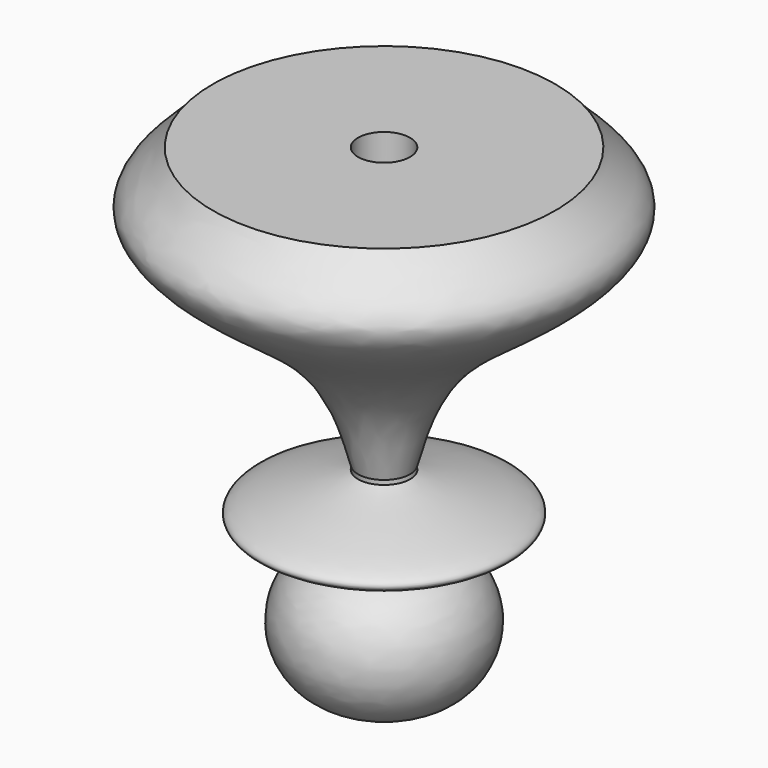
from build123d import *


with BuildPart() as f1:
    # F0 (on Right) → F1 (revolve)
    with BuildSketch(Plane.YZ):
        with BuildLine():
            Line((0, 13.0196327599), (0, -15.820335771))
            add(Edge.make_bspline(
                [(0, -15.820335771), (0.9483472479, -12.3530663624), (2.9142217394, -4.3031595803), (24.1643272847, 6.703975096), (16.3854773323, 11.0956474022), (15, 13.0196327599)],
                knots=[0.0077370555, 0.0077370555, 0.0077370555, 0.0077370555, 0.3333793249, 0.7461959182, 1, 1, 1, 1], degree=3))
            Line((15, 13.0196327599), (0, 13.0196327599))
        make_face()
    revolve(axis=Axis((0, -2.6875874028, -12.178337574), (0, 0, 1)))


with BuildPart() as f1b:
    # F0 (on Right) → F1, piece 2 (revolve)
    with BuildSketch(Plane.YZ):
        with BuildLine():
            Line((0, -16.2748545408), (0, -22.9814901708))
            add(Edge.make_bspline(
                [(0, -22.9814901708), (5.6699117439, -22.051949532), (17.0481207367, -20.186575231), (0.8138854669, -16.9738926898), (0, -16.2748545408)],
                knots=[0, 0, 0, 0, 0.459889414, 0.9228922958, 0.9228922958, 0.9228922958, 0.9228922958], degree=3))
        make_face()
    revolve(axis=Axis((0, -2.6875874028, -12.178337574), (0, 0, 1)))


with BuildPart() as f1c:
    # F0 (on Right) → F1, piece 3 (revolve)
    with BuildSketch(Plane.YZ):
        with BuildLine():
            Line((0, -22.9814901708), (0, -36.9803672401))
            ThreePointArc((0, -36.9803672401), (6.9113422342, -29.9809287055), (0, -22.9814901708))
        make_face()
    revolve(axis=Axis((0, -2.6875874028, -12.178337574), (0, 0, 1)))


solid = Compound([f1.part, f1b.part, f1c.part])
